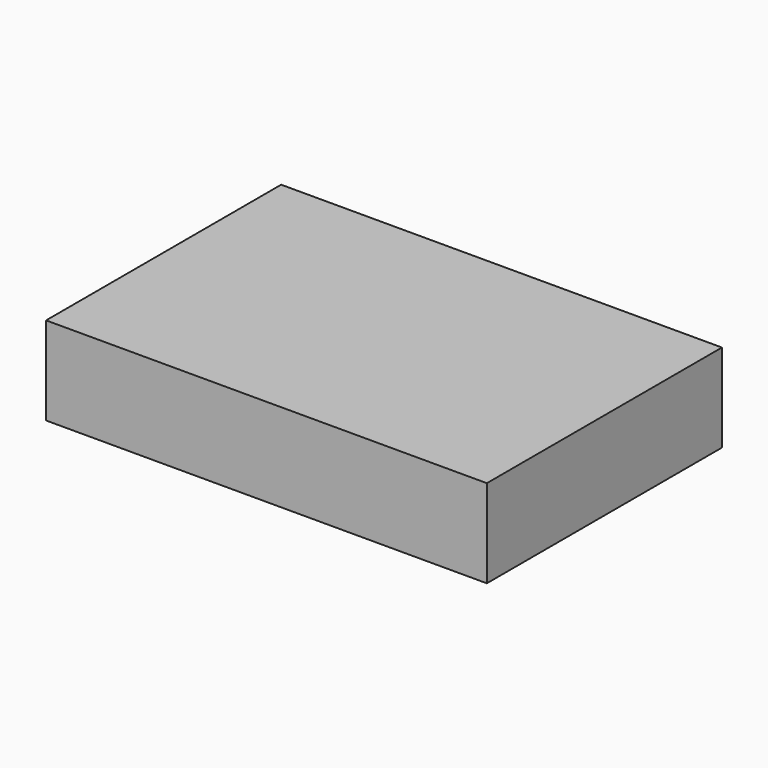
from build123d import *

# Parameters (mm, degrees)
SKETCH_W  = 3
SKETCH_H  = 2
PAD_DEPTH = 0.6


with BuildPart() as part:
    # Sketch → Pad (new body)
    with BuildSketch(Plane.XY):
        Rectangle(SKETCH_W, SKETCH_H)
    extrude(amount=PAD_DEPTH)


solid = part.part
